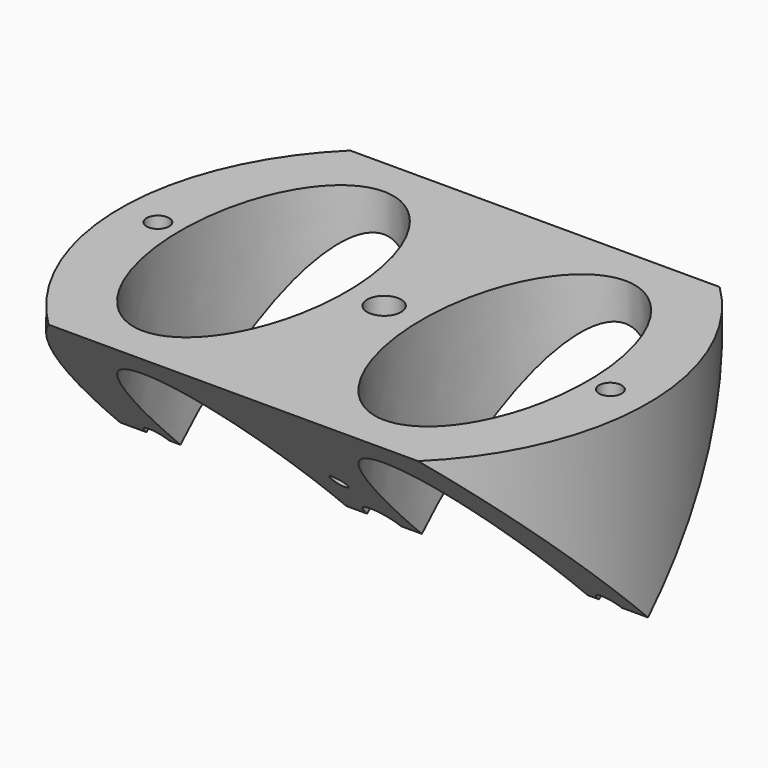
from build123d import *

# Parameters (mm, degrees)
F0_R          = 35
F0_R_2        = 1.5
F0_R_3        = 2.25
F1_DEPTH      = 25
F3_DEPTH      = 35.0010001
F3_DEPTH_BACK = 35.0010001
F4_R          = 1
F5_DEPTH      = 25.0010001
F5_DEPTH_BACK = 25.0010001


with BuildPart() as f1:
    # F0 (on Top) → F1 (new body)
    with BuildSketch(Plane.XY):
        Circle(F0_R)
        with Locations((-30, 0)):
            Circle(F0_R_2, mode=Mode.SUBTRACT)
        with BuildLine():
            add(Edge.make_bspline(
                [(-16, 20), (-35.0525588833, 20), (-25.5262794416, -10), (-16, -40), (-6.4737205584, -10), (3.0525588833, 20), (-16, 20)],
                knots=[0, 0, 0, 2.0943951024, 2.0943951024, 4.1887902048, 4.1887902048, 6.2831853072, 6.2831853072, 6.2831853072], degree=2, weights=[1, 0.5, 1, 0.5, 1, 0.5, 1]))
        make_face(mode=Mode.SUBTRACT)
        Circle(F0_R_3, mode=Mode.SUBTRACT)
        with BuildLine():
            add(Edge.make_bspline(
                [(16, 20), (-3.0525588833, 20), (6.4737205584, -10), (16, -40), (25.5262794416, -10), (35.0525588833, 20), (16, 20)],
                knots=[0, 0, 0, 2.0943951024, 2.0943951024, 4.1887902048, 4.1887902048, 6.2831853072, 6.2831853072, 6.2831853072], degree=2, weights=[1, 0.5, 1, 0.5, 1, 0.5, 1]))
        make_face(mode=Mode.SUBTRACT)
        with Locations((30, 0)):
            Circle(F0_R_2, mode=Mode.SUBTRACT)
    extrude(amount=F1_DEPTH)

    # F2 (on Right) → F3 (cut, two sides)
    with BuildSketch(Plane.YZ) as f3_sk:
        Polygon((50, 50), (0, 0), (50, 0), align=None)
        Polygon((-50, 0), (0, 0), (-50, 50), align=None)
    extrude(amount=-F3_DEPTH, mode=Mode.SUBTRACT)
    extrude(f3_sk.sketch, amount=F3_DEPTH_BACK, mode=Mode.SUBTRACT)

    # F4 (on Front) → F5 (cut, two sides)
    with BuildSketch(Plane.XZ) as f5_sk:
        with Locations((0, 7.5)):
            Circle(F4_R)
    extrude(amount=-F5_DEPTH, mode=Mode.SUBTRACT)
    extrude(f5_sk.sketch, amount=F5_DEPTH_BACK, mode=Mode.SUBTRACT)


solid = f1.part
